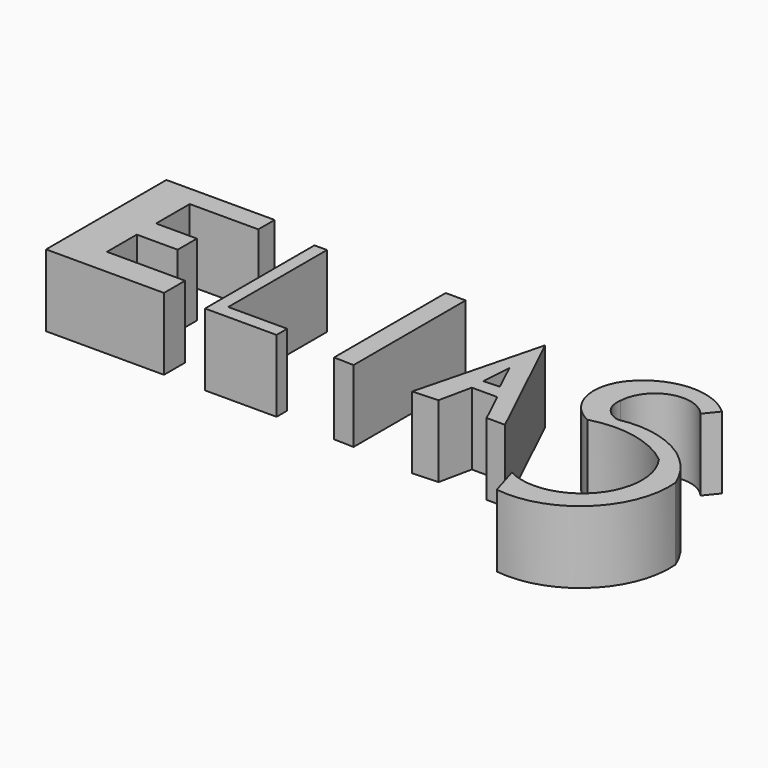
from build123d import *

# Parameters (mm, degrees)
F3_DEPTH = 25.4
F4_DEPTH = 25.4
F5_DEPTH = 25.4
F7_DEPTH = 25.4
F8_DEPTH = 25.4


with BuildPart() as f3:
    # F2 (on Top) → F3 (new body)
    with BuildSketch(Plane.XY):
        Polygon((40.810443, 27.381433), (29.443722, -16.971085), (38.3588, -16.525332), (40.810443, -4.944342), (49.771493, -4.944342), (55.297449, -16.525332), (61.760884, -16.525332), align=None)
        Polygon((46.533596, 0.286157), (40.810443, 0), (41.644715, 10.532001), align=None, mode=Mode.SUBTRACT)
    extrude(amount=F3_DEPTH)


with BuildPart() as f4:
    # F1 (on Top) → F4 (new body)
    with BuildSketch(Plane.XY):
        Polygon((0, 34.577396), (0, -14.578045), (7.029417, -14.773884), (7.029417, 34.577396), align=None)
    extrude(amount=F4_DEPTH)


with BuildPart() as f5:
    # F0 (on Top) → F5 (new body)
    with BuildSketch(Plane.XY):
        Polygon((-41.501839, 34.185719), (-45.933153, 34.185719), (-45.933153, -13.990531), (-20.730037, -13.990531), (-20.730037, -9.290408), (-41.501839, -9.290408), align=None)
    extrude(amount=F5_DEPTH)


with BuildPart() as f7:
    # F6 (on Top) → F7 (new body)
    with BuildSketch(Plane.XY):
        Polygon((-102.078229, -13.794109), (-60.547348, -13.794109), (-60.547348, -4.47085), (-88.09334, -4.47085), (-88.09334, 8.666473), (-73.68467, 8.666473), (-73.68467, 17.14216), (-88.09334, 17.14216), (-88.09334, 31.974625), (-63.937619, 31.974625), (-63.937619, 39.178964), (-102.078229, 39.178964), align=None)
    extrude(amount=F7_DEPTH)


with BuildPart() as f8:
    # F6 (on Top) → F8 (new body)
    with BuildSketch(Plane.XY):
        with BuildLine():
            Line((99.643208, 22.227582), (103.457272, 26.889214))
            ThreePointArc((103.457272, 26.889214), (88.328602, 32.663695), (73.368564, 26.465423))
            ThreePointArc((73.368564, 26.465423), (68.332102, 12.086937), (77.60641, 0))
            ThreePointArc((77.60641, 0), (93.401046, 0.578223), (107.695118, -6.165987))
            ThreePointArc((107.695118, -6.165987), (106.769493, -32.422847), (80.9967, -37.526041))
            Line((80.9967, -37.526041), (84.145661, -48.120655))
            ThreePointArc((84.145661, -48.120655), (110.191783, -39.759961), (119.984865, -14.217894))
            ThreePointArc((119.984865, -14.217894), (105.601958, 2.031243), (84.145661, 5.276199))
            ThreePointArc((84.145661, 5.276199), (78.932468, 8.58733), (77.60641, 14.619125))
            ThreePointArc((77.60641, 14.619125), (86.038582, 25.913986), (99.643208, 22.227582))
        make_face()
    extrude(amount=F8_DEPTH)


solid = Compound([f3.part, f4.part, f5.part, f7.part, f8.part])
